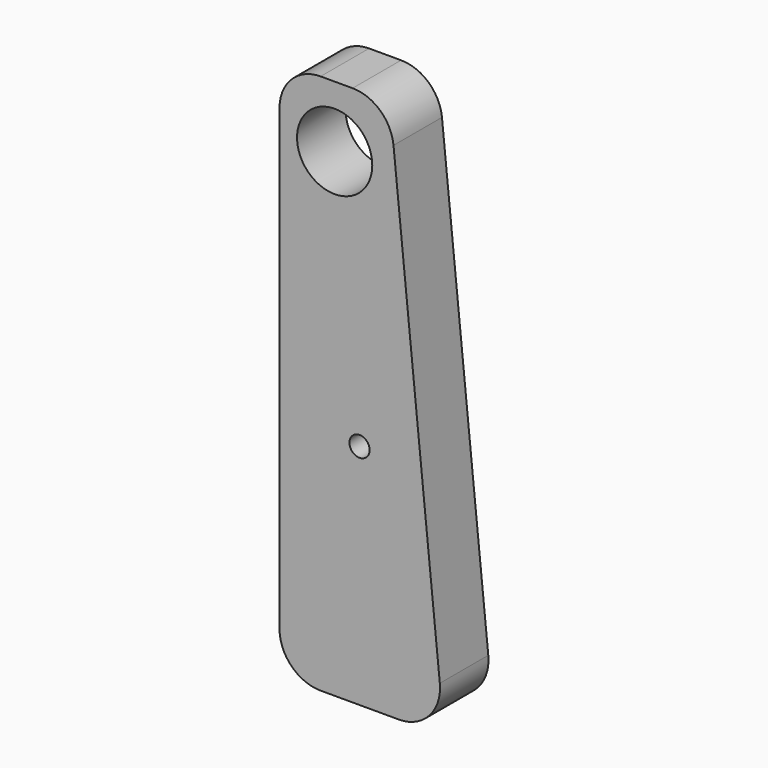
from build123d import *

# Parameters (mm, degrees)
F0_R     = 1.27
F0_R_2   = 4.731538
F1_DEPTH = 7.62
F2_R     = 5.171787


with BuildPart() as f1:
    # F0 (on Front) → F1 (new body)
    with BuildSketch(Plane.XZ):
        Polygon((13.868401, 56.007002), (0, 56.007002), (0, 0), (0, -12.0015), (20.738032, -12.0015), align=None)
        with Locations((10.065445, 16.636439)):
            Circle(F0_R, mode=Mode.SUBTRACT)
        with Locations((6.9342, 48.272703)):
            Circle(F0_R_2, mode=Mode.SUBTRACT)
    extrude(amount=F1_DEPTH)

    # F2
    f2_edges = [f1.edges().sort_by_distance(p)[0] for p in [
        (0, -3.81, 56.007002),
        (13.868401, -3.81, 56.007002),
        (0, -3.81, -12.0015),
        (20.738032, -3.81, -12.0015),
    ]]
    fillet(f2_edges, radius=F2_R)


solid = f1.part
